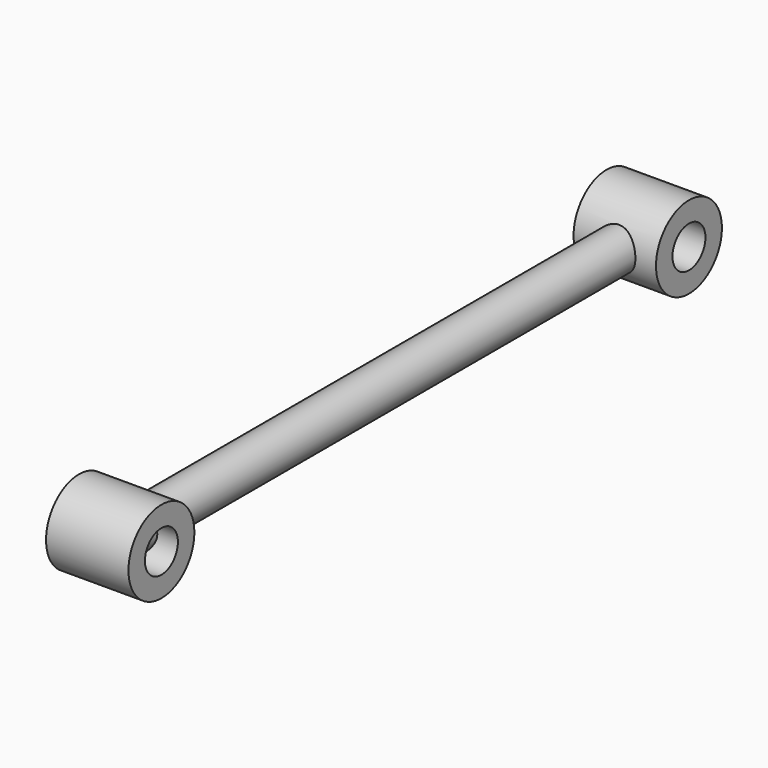
from build123d import *

# Parameters (mm, degrees)
F0_R     = 6.35
F0_R_2   = 3.175
F2_DEPTH = 6.35
F1_R     = 3.175
F3_DEPTH = 97.100738786


with BuildPart() as f2:
    # F0 (on Right) → F2 (new body, symmetric)
    with BuildSketch(Plane.YZ):
        Circle(F0_R)
        Circle(F0_R_2, mode=Mode.SUBTRACT)
    extrude(amount=F2_DEPTH, both=True)



with BuildPart() as f2b:
    # F0 (on Right) → F2, piece 2 (new body, symmetric)
    with BuildSketch(Plane.YZ):
        with Locations((101.6, 0)):
            Circle(F0_R)
        with Locations((101.6, 0)):
            Circle(F0_R_2, mode=Mode.SUBTRACT)
    extrude(amount=F2_DEPTH, both=True)


with BuildPart() as f2_1:
    add(f2.part)

    add(f2b.part)  # F3 merges F2b
    # F1 (on Front) → F3 (join, up to face)
    with BuildSketch(Plane.XZ):
        Circle(F1_R)
    extrude(amount=-F3_DEPTH)


solid = f2_1.part
